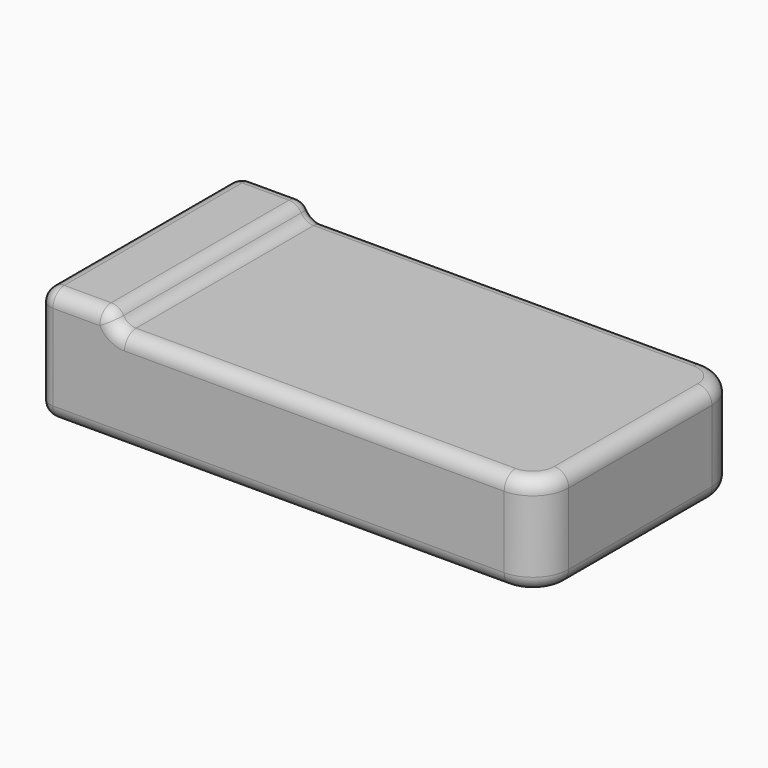
from build123d import *

# Parameters (mm, degrees)
F1_DEPTH = 35
F2_R     = 5
F3_R     = 2


with BuildPart() as f1:
    # F0 (on Front) → F1 (new body)
    with BuildSketch(Plane.XZ):
        with BuildLine():
            Line((-19.8307685554, 3.7411112362), (-29.8307685554, 3.7411112362))
            Line((-29.8307685554, 3.7411112362), (-29.8307685554, -12.2588887638))
            Line((-29.8307685554, -12.2588887638), (40.1692314446, -12.2588887638))
            Line((40.1692314446, -12.2588887638), (40.1692314446, 1.7411112362))
            Line((40.1692314446, 1.7411112362), (-17.8307685554, 1.7411112362))
            ThreePointArc((-17.8307685554, 1.7411112362), (-19.2449821178, 2.3268976739), (-19.8307685554, 3.7411112362))
        make_face()
    extrude(amount=F1_DEPTH)

    # F2
    f2_edges = [f1.edges().sort_by_distance(p)[0] for p in [
        (40.169231, -35, -5.258889),
        (40.169231, 0, -5.258889),
    ]]
    fillet(f2_edges, radius=F2_R)

    # F3
    f3_edges = [f1.edges().sort_by_distance(p)[0] for p in [
        (-19.830769, -17.5, 3.741111),
        (-29.830769, -17.5, 3.741111),
        (-24.830769, 0, 3.741111),
        (-24.830769, -35, 3.741111),
        (2.669231, -35, -12.258889),
        (35.169231, -35, -5.258889),
        (-29.830769, -35, -4.258889),
        (8.669231, -35, 1.741111),
        (-19.244982, -35, 2.326898),
        (2.669231, 0, -12.258889),
        (35.169231, 0, -5.258889),
        (-29.830769, 0, -4.258889),
        (8.669231, 0, 1.741111),
        (-19.244982, 0, 2.326898),
        (-29.830769, -17.5, -12.258889),
    ]]
    fillet(f3_edges, radius=F3_R)


solid = f1.part
